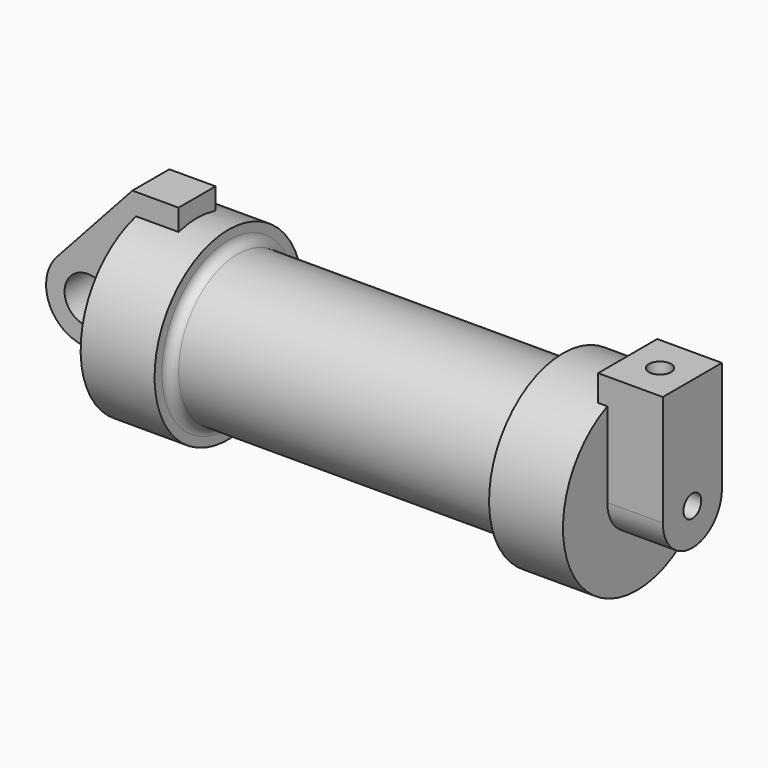
from build123d import *

# Parameters (mm, degrees)
F0_W          = 5.842
F0_H          = 12.7
F0_R          = 3.175
F2_DEPTH      = 3.175
F3_R          = 1.53
F4_DEPTH      = 7.62
F4_DEPTH_BACK = 1.27
F6_D          = 3.048
F6_DEPTH      = 17.78
F6_TIP        = 0.9157115834
F8_D          = 3.048
F8_DEPTH      = 10.414
F8_TIP        = 0.9157115834
F9_R          = 1.27


with BuildPart() as f1:
    # F0 (on Front) → F1 (revolve)
    with BuildSketch(Plane.XZ):
        Polygon((5.842, 12.7), (5.842, 0), (66.294, 0), (66.294, 12.7), (56.134, 12.7), (56.134, 10.16), (10.16, 10.16), (10.16, 12.7), align=None)
        with Locations((2.921, 6.35)):
            Rectangle(F0_W, F0_H)
    revolve(axis=Axis((33.147, 0, 0), (-1, 0, 0)))

    # F3 (on face) → F4 (join, two sides)
    with BuildSketch(Plane.YZ.offset(66.294)) as f4_sk:
        with BuildLine():
            ThreePointArc((-5.08, 0), (0, -5.08), (5.08, 0))
            ThreePointArc((5.08, 0), (0, 5.08), (-5.08, 0))
        make_face()
        Circle(F3_R, mode=Mode.SUBTRACT)
        with BuildLine():
            ThreePointArc((-5.08, 0), (0, 5.08), (5.08, 0))
            Line((5.08, 0), (5.08, 15.24))
            Line((5.08, 15.24), (-5.08, 15.24))
            Line((-5.08, 15.24), (-5.08, 0))
        make_face()
    extrude(amount=F4_DEPTH)
    extrude(f4_sk.sketch, amount=-F4_DEPTH_BACK)

    # F6
    with Locations(Plane.XY.offset(15.24)):
        with Locations((2.667, 0)):
            Hole(F6_D / 2, depth=F6_DEPTH)
            with Locations((0, 0, -(F6_DEPTH + F6_TIP / 2))):  # 118° drill point
                Cone(0, F6_D / 2, F6_TIP, mode=Mode.SUBTRACT)

    # F8
    with Locations(Plane.XY.offset(15.24)):
        with Locations((69.469, 0)):
            Hole(F8_D / 2, depth=F8_DEPTH)
            with Locations((0, 0, -(F8_DEPTH + F8_TIP / 2))):  # 118° drill point
                Cone(0, F8_D / 2, F8_TIP, mode=Mode.SUBTRACT)

    # F9
    f9_edges = [f1.edges().sort_by_distance(p)[0] for p in [
        (56.134, 0, -10.16),
        (10.16, 0, -10.16),
        (33.147, 0, 10.16),
    ]]
    fillet(f9_edges, radius=F9_R)


with BuildPart() as f2:
    # F0 (on Front) → F2 (new body, symmetric)
    with BuildSketch(Plane.XZ):
        with BuildLine():
            ThreePointArc((-8.1826630726, -5.5069827884), (-3.1957909266, -4.5493385486), (-0.9398, 0))
            ThreePointArc((-0.9398, 0), (-4.5919612295, 5.3297205562), (-10.8806298187, 3.8475430269))
            ThreePointArc((-10.8806298187, 3.8475430269), (-12.1459778134, -1.5837270034), (-8.1826630726, -5.5069827884))
        make_face()
        with Locations((-6.6548, 0)):
            Circle(F0_R, mode=Mode.SUBTRACT)
        with BuildLine():
            Line((5.842, 0), (0, 0))
            Line((0, 0), (-0.9398, 0))
            ThreePointArc((-0.9398, 0), (-3.1957909266, -4.5493385486), (-8.1826630726, -5.5069827884))
            Line((-8.1826630726, -5.5069827884), (5.842, -9.398))
            Line((5.842, -9.398), (5.842, 0))
        make_face()
        with BuildLine():
            Line((-0.9398, 0), (0, 0))
            Line((0, 0), (0, 12.7))
            Line((0, 12.7), (5.842, 12.7))
            Line((5.842, 12.7), (5.842, 15.24))
            Line((5.842, 15.24), (-0.508, 15.24))
            Line((-0.508, 15.24), (-10.8806298187, 3.8475430269))
            ThreePointArc((-10.8806298187, 3.8475430269), (-4.5919612295, 5.3297205562), (-0.9398, 0))
        make_face()
        with Locations((2.921, 6.35)):
            Rectangle(F0_W, F0_H)
    extrude(amount=F2_DEPTH, both=True)


solid = Compound([f1.part, f2.part])
